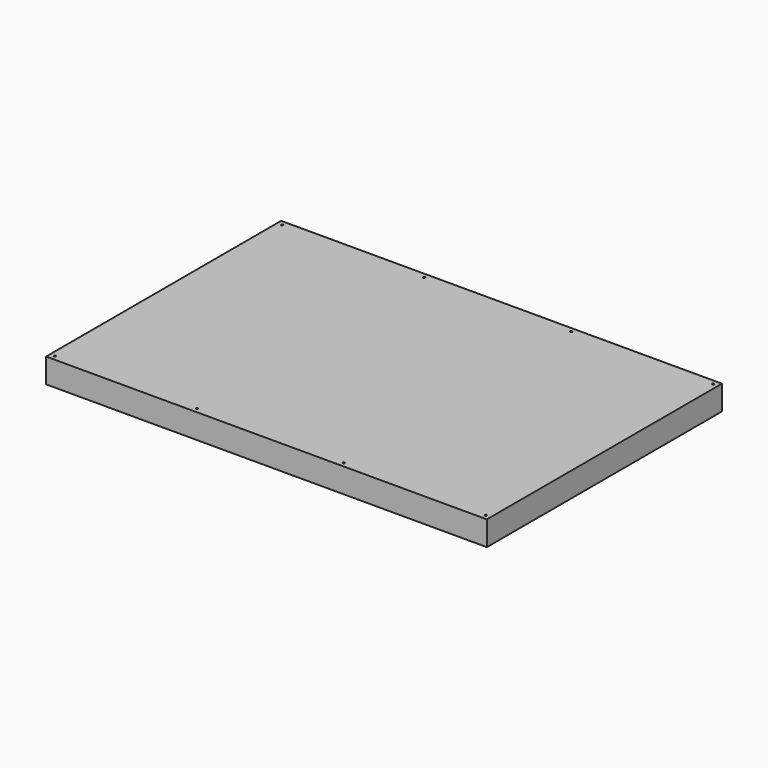
from build123d import *

# Parameters (mm, degrees)
F0_W     = 4500
F0_H     = 3000
F0_R     = 10
F1_DEPTH = 250


with BuildPart() as f1:
    # F0 (on Top) → F1 (new body)
    with BuildSketch(Plane.XY):
        with Locations((-0.297893, 476.657855)):
            Rectangle(F0_W, F0_H)
        with Locations((-2200.297893, -973.342145)):
            Circle(F0_R, mode=Mode.SUBTRACT)
        with Locations((-750.297893, -973.342145)):
            Circle(F0_R, mode=Mode.SUBTRACT)
        with Locations((749.702107, -973.342145)):
            Circle(F0_R, mode=Mode.SUBTRACT)
        with Locations((2199.702107, -973.342145)):
            Circle(F0_R, mode=Mode.SUBTRACT)
        with Locations((-2200.297893, 1926.657855)):
            Circle(F0_R, mode=Mode.SUBTRACT)
        with Locations((-750.297893, 1926.657855)):
            Circle(F0_R, mode=Mode.SUBTRACT)
        with Locations((749.702107, 1926.657855)):
            Circle(F0_R, mode=Mode.SUBTRACT)
        with Locations((2199.702107, 1926.657855)):
            Circle(F0_R, mode=Mode.SUBTRACT)
    extrude(amount=F1_DEPTH)


solid = f1.part
